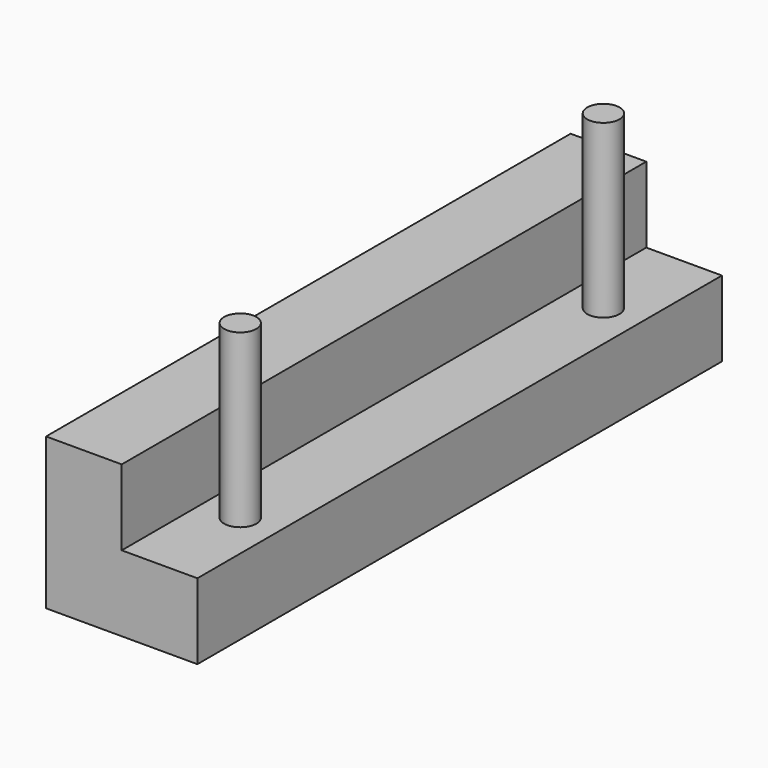
from build123d import *

# Parameters (mm, degrees)
F1_DEPTH = 165.1
F2_R     = 4.064
F3_DEPTH = 43.18


with BuildPart() as f1:
    # F0 (on Front) → F1 (new body)
    with BuildSketch(Plane.XZ):
        Polygon((0, 38.1), (0, 0), (38.1, 0), (38.1, 19.05), (19.05, 19.05), (19.05, 38.1), align=None)
    extrude(amount=F1_DEPTH)

    # F2 (on face) → F3 (join)
    with BuildSketch(Plane.XY.offset(19.05)):
        with Locations((28.575, -25.4)):
            Circle(F2_R)
        with Locations((28.575, -139.7)):
            Circle(F2_R)
    extrude(amount=F3_DEPTH)


solid = f1.part
